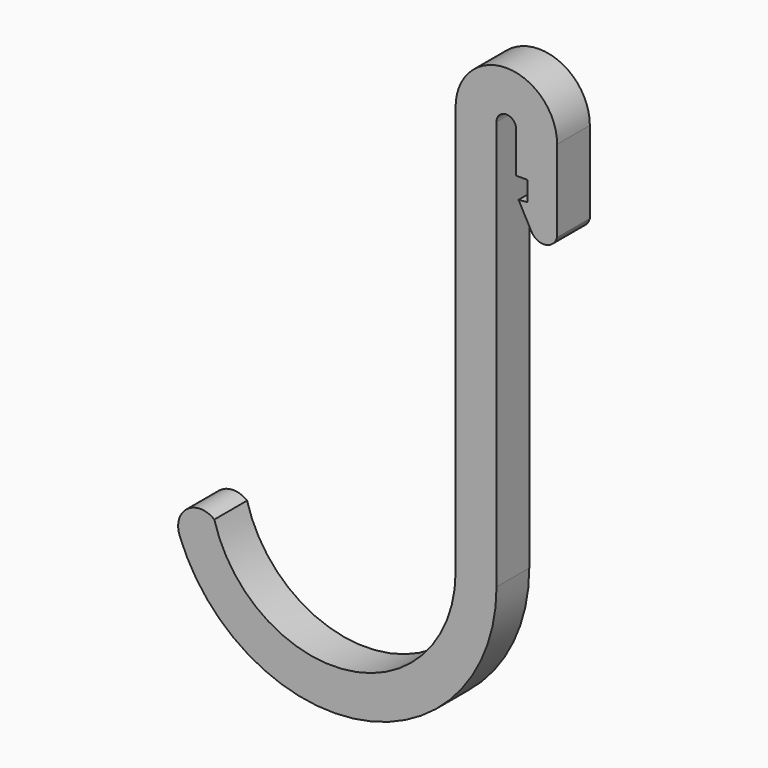
from build123d import *

# Parameters (mm, degrees)
F1_DEPTH = 3.175


with BuildPart() as f1:
    # F0 (on Front) → F1 (new body, symmetric)
    with BuildSketch(Plane.XZ):
        with BuildLine():
            Line((-2.34367, -50.8), (-2.34367, 12.7))
            ThreePointArc((-2.34367, 12.7), (-0.81967, 14.224), (0.70433, 12.7))
            Line((0.70433, 12.7), (0.70433, 6.35))
            Line((0.70433, 6.35), (2.430502, 6.35))
            Line((2.430502, 6.35), (2.430502, 3.302))
            Line((2.430502, 3.302), (1.073531, 3.177847))
            Line((1.073531, 3.177847), (3.068025, -0.498812))
            ThreePointArc((3.068025, -0.498812), (5.231482, -1.610412), (7.05433, 0))
            Line((7.05433, 0), (7.05433, 12.7))
            ThreePointArc((7.05433, 12.7), (-0.81967, 20.574), (-8.69367, 12.7))
            Line((-8.69367, 12.7), (-8.69367, -50.8))
            ThreePointArc((-8.69367, -50.8), (-25.205659, -69.680175), (-46.117397, -55.830769))
            ThreePointArc((-46.117397, -55.830769), (-50.310372, -55.74711), (-51.508532, -59.766121))
            ThreePointArc((-51.508532, -59.766121), (-23.186669, -75.787872), (-2.34367, -50.8))
        make_face()
    extrude(amount=F1_DEPTH, both=True)


solid = f1.part
